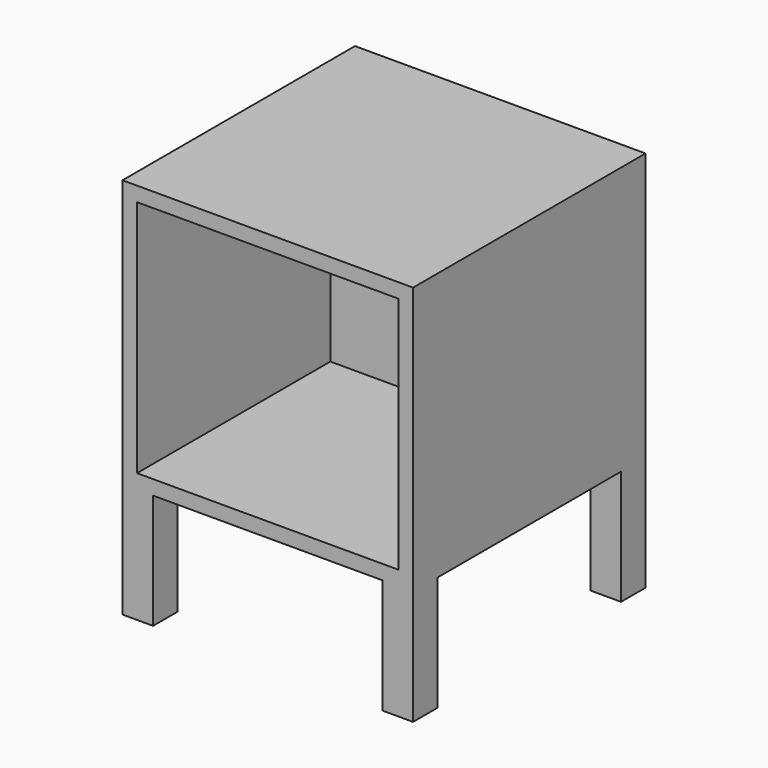
from build123d import *

# Parameters (mm, degrees)
F0_W     = 380
F0_H     = 380
F1_DEPTH = 350
F2_W     = 342
F2_H     = 312
F3_DEPTH = 316
F4_W     = 40
F4_H     = 40
F5_DEPTH = 150


with BuildPart() as f1:
    # F0 (on Top) → F1 (new body)
    with BuildSketch(Plane.XY):
        Rectangle(F0_W, F0_H)
    extrude(amount=F1_DEPTH)

    # F2 (on face) → F3 (cut)
    with BuildSketch(Plane.XZ.offset(190)):
        with Locations((0, 175)):
            Rectangle(F2_W, F2_H)
    extrude(amount=-F3_DEPTH, mode=Mode.SUBTRACT)

    # F4 (on face) → F5 (join)
    with BuildSketch(Plane(origin=(0, 0, 0), x_dir=(1, 0, 0), z_dir=(0, 0, -1))):
        with Locations((170, 170)):
            Rectangle(F4_W, F4_H)
        with Locations((-170, -170)):
            Rectangle(F4_W, F4_H)
        with Locations((170, -170)):
            Rectangle(F4_W, F4_H)
        with Locations((-170, 170)):
            Rectangle(F4_W, F4_H)
    extrude(amount=F5_DEPTH)


solid = f1.part
